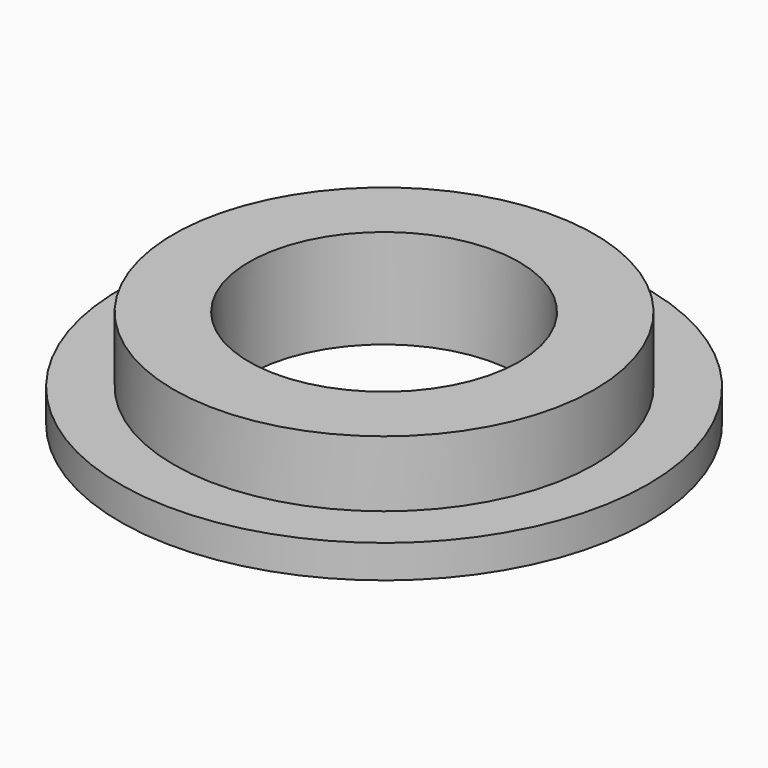
from build123d import *


with BuildPart() as part:
    # Sketch → Revolution (revolve)
    with BuildSketch(Plane.XZ):
        Polygon((13, 0), (25.4, 0), (25.4, 3.175), (20.25, 3.175), (20.25, 9.525), (13, 9.525), align=None)
    revolve(axis=Axis((0, 0, 0), (0, 0, 1)))


solid = part.part
